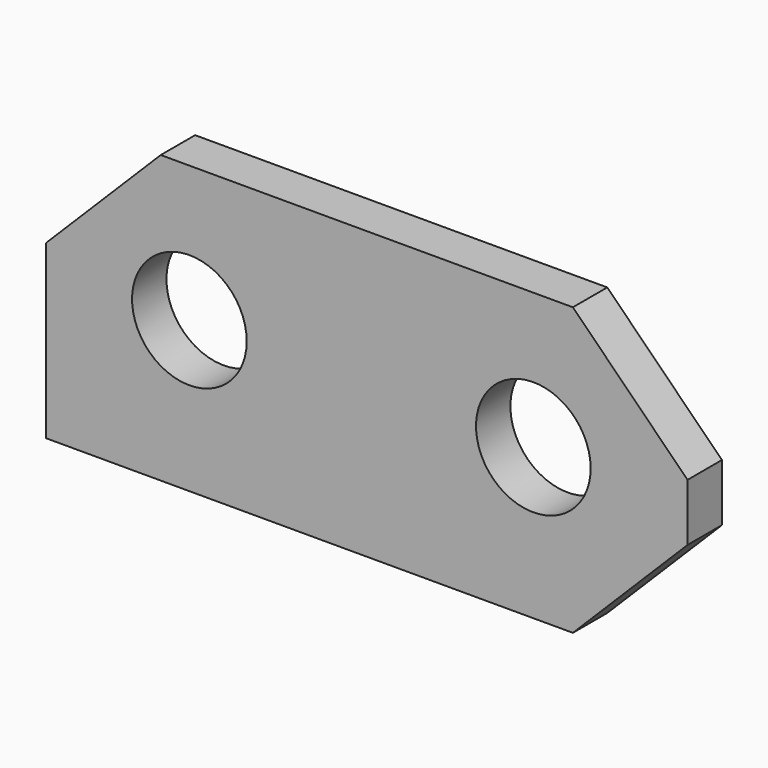
from build123d import *

# Parameters (mm, degrees)
SKETCH_R  = 12.7
PAD_DEPTH = 9.525


with BuildPart() as part:
    # Sketch → Pad (new body)
    with BuildSketch(Plane.XZ):
        Polygon((-60.157258, 57.66002), (31.155391, 57.66002), (56.555391, 32.26002), (56.555391, 19.56002), (31.155391, -5.83998), (-85.557258, -5.83998), (-85.557258, 32.26002), align=None)
        with Locations((-53.807258, 27.51022)):
            Circle(SKETCH_R, mode=Mode.SUBTRACT)
        with Locations((22.392742, 27.51022)):
            Circle(SKETCH_R, mode=Mode.SUBTRACT)
    extrude(amount=PAD_DEPTH)


solid = part.part
